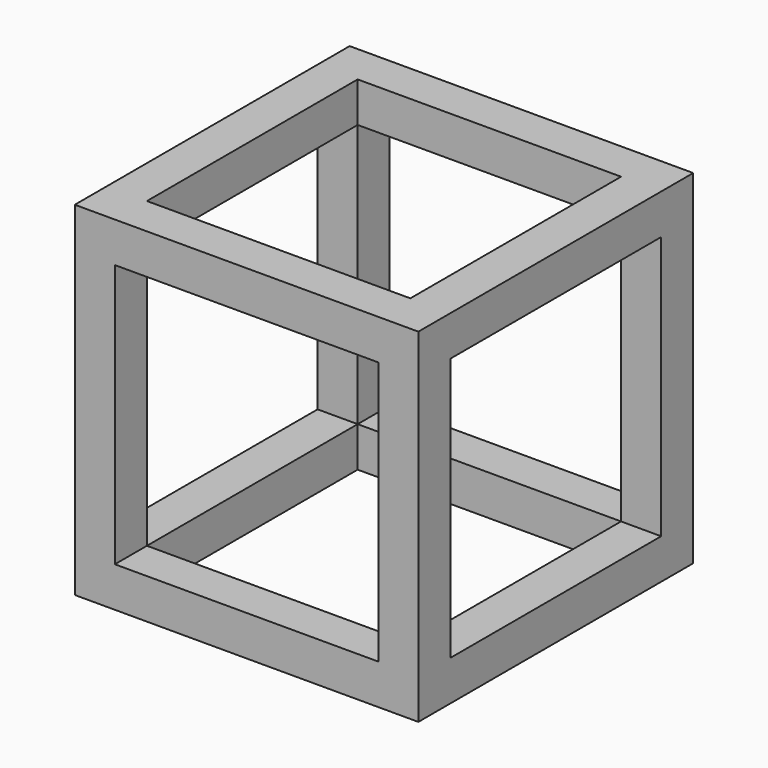
from build123d import *

# Parameters (mm, degrees)
F0_W     = 30
F0_H     = 30
F1_DEPTH = 30
F2_W     = 23
F2_H     = 23
F3_DEPTH = 30
F4_W     = 23
F4_H     = 23
F5_DEPTH = 30
F6_W     = 23
F6_H     = 23
F7_DEPTH = 30


with BuildPart() as f1:
    # F0 (on Front) → F1 (new body)
    with BuildSketch(Plane.XZ):
        Rectangle(F0_W, F0_H)
    extrude(amount=F1_DEPTH)

    # F2 (on face) → F3 (cut)
    with BuildSketch(Plane(origin=(0, 0, 0), x_dir=(-1, 0, 0), z_dir=(0, 1, 0))):
        Rectangle(F2_W, F2_H)
    extrude(amount=-F3_DEPTH, mode=Mode.SUBTRACT)

    # F4 (on face) → F5 (cut)
    with BuildSketch(Plane(origin=(-15, 0, 0), x_dir=(0, -1, 0), z_dir=(-1, 0, 0))):
        with Locations((15, 0)):
            Rectangle(F4_W, F4_H)
    extrude(amount=-F5_DEPTH, mode=Mode.SUBTRACT)

    # F6 (on face) → F7 (cut)
    with BuildSketch(Plane.XY.offset(15)):
        with Locations((0, -15)):
            Rectangle(F6_W, F6_H)
    extrude(amount=-F7_DEPTH, mode=Mode.SUBTRACT)


solid = f1.part
